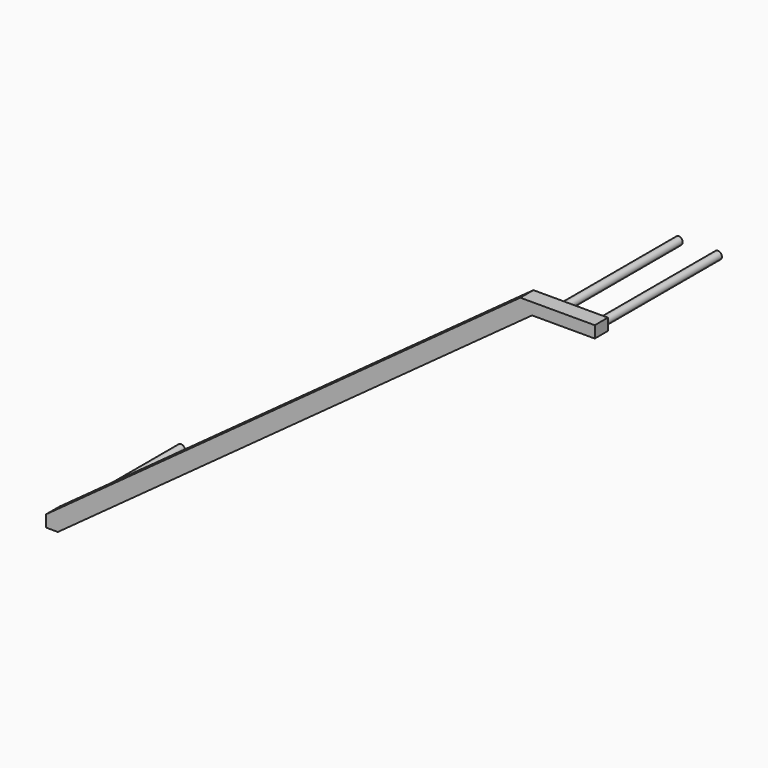
from build123d import *

# Parameters (mm, degrees)
F1_DEPTH = 106.1974
F2_R     = 25.4
F3_DEPTH = 939.8


with BuildPart() as f1:
    # F0 (on Front) → F1 (new body)
    with BuildSketch(Plane.XZ):
        Polygon((2064.44667, 17.446511), (2064.44667, 93.646511), (1581.84667, 93.646511), (-1491.547815, -2141.553489), (-1491.547815, -2217.753489), (-1415.347815, -2217.753489), (1658.04667, 17.446511), align=None)
    extrude(amount=F1_DEPTH)

    # F2 (on face) → F3 (join)
    with BuildSketch(Plane(origin=(0, 0, 0), x_dir=(-1, 0, 0), z_dir=(0, 1, 0))):
        with BuildLine():
            ThreePointArc((-1746.94667, 55.546511), (-1772.34667, 80.946511), (-1797.74667, 55.546511))
            ThreePointArc((-1797.74667, 55.546511), (-1772.34667, 30.146511), (-1746.94667, 55.546511))
        make_face()
        with BuildLine():
            ThreePointArc((-2000.94667, 55.546511), (-2026.34667, 80.946511), (-2051.74667, 55.546511))
            Line((-2051.74667, 55.546511), (-2026.34667, 55.546511))
            Line((-2026.34667, 55.546511), (-2000.94667, 55.546511))
        make_face()
        with BuildLine():
            Line((-2026.34667, 55.546511), (-2051.74667, 55.546511))
            ThreePointArc((-2051.74667, 55.546511), (-2026.34667, 30.146511), (-2000.94667, 55.546511))
            Line((-2000.94667, 55.546511), (-2026.34667, 55.546511))
        make_face()
        with Locations((1453.447815, -2179.653489)):
            Circle(F2_R)
    extrude(amount=F3_DEPTH)


solid = f1.part
